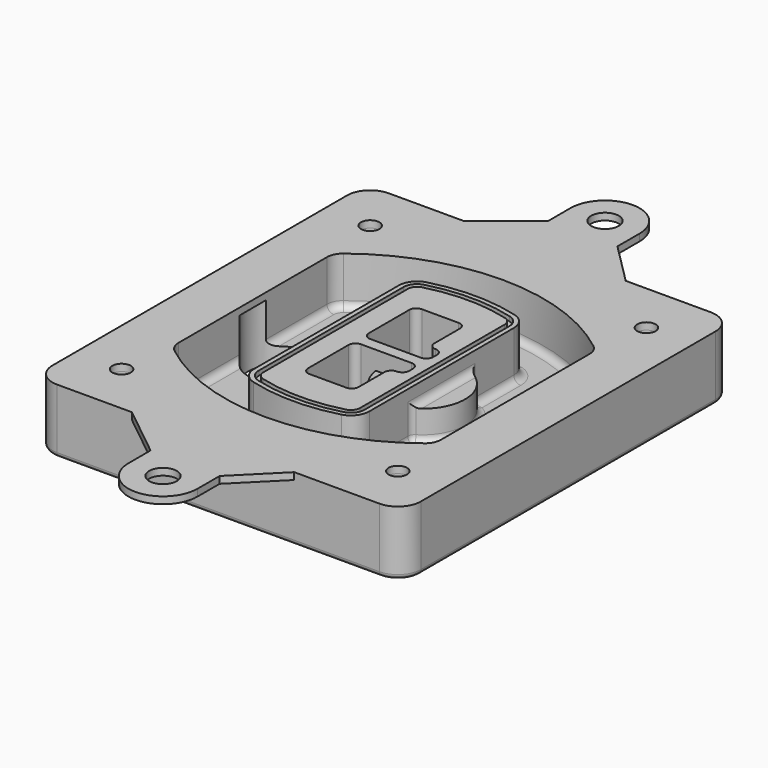
from build123d import *

# Parameters (mm, degrees)
F0_R      = 4
F1_DEPTH  = 25
F2_DEPTH  = 3
F3_DEPTH  = 18
F5_DEPTH  = 21
F6_DEPTH  = 2
F8_DEPTH  = 20
F9_DEPTH  = 16
F10_DEPTH = 25
F7_R      = 6
F7_R_2    = 4
F11_DEPTH = 6
F13_DEPTH = 9
F14_R     = 3
F15_R     = 2
F16_R     = 4
F16_R_2   = 6
F17_DEPTH = 3


with BuildPart() as f1:
    # F0 (on Top) → F1 (new body)
    with BuildSketch(Plane.XY):
        with BuildLine():
            ThreePointArc((-80, -80), (-77.0710678119, -87.0710678119), (-70, -90))
            Line((-70, -90), (70, -90))
            ThreePointArc((70, -90), (77.0710678119, -87.0710678119), (80, -80))
            Line((80, -80), (80, 80))
            ThreePointArc((80, 80), (77.0710678119, 87.0710678119), (70, 90))
            Line((70, 90), (-70, 90))
            ThreePointArc((-70, 90), (-77.0710678119, 87.0710678119), (-80, 80))
            Line((-80, 80), (-80, -80))
        make_face()
        with Locations((-60, -67.5)):
            Circle(F0_R, mode=Mode.SUBTRACT)
        with Locations((60, -67.5)):
            Circle(F0_R, mode=Mode.SUBTRACT)
        with Locations((-60, 67.5)):
            Circle(F0_R, mode=Mode.SUBTRACT)
        with BuildLine():
            ThreePointArc((-64, 40.2934422872), (-62.5820384798, 46.4328484224), (-58.6153846154, 51.3286200352))
            ThreePointArc((-58.6153846154, 51.3286200352), (0, 71.5), (58.6153846154, 51.3286200352))
            ThreePointArc((58.6153846154, 51.3286200352), (62.5820384798, 46.4328484224), (64, 40.2934422872))
            Line((64, 40.2934422872), (64, -40.2934422872))
            ThreePointArc((64, -40.2934422872), (62.5820384798, -46.4328484224), (58.6153846154, -51.3286200352))
            ThreePointArc((58.6153846154, -51.3286200352), (0, -71.5), (-58.6153846154, -51.3286200352))
            ThreePointArc((-58.6153846154, -51.3286200352), (-62.5820384798, -46.4328484224), (-64, -40.2934422872))
            Line((-64, -40.2934422872), (-64, 40.2934422872))
        make_face(mode=Mode.SUBTRACT)
        with Locations((60, 67.5)):
            Circle(F0_R, mode=Mode.SUBTRACT)
        with BuildLine():
            ThreePointArc((58.6153846154, 51.3286200352), (0, 71.5), (-58.6153846154, 51.3286200352))
            ThreePointArc((-58.6153846154, 51.3286200352), (-62.5820384798, 46.4328484224), (-64, 40.2934422872))
            Line((-64, 40.2934422872), (-64, -40.2934422872))
            ThreePointArc((-64, -40.2934422872), (-62.5820384798, -46.4328484224), (-58.6153846154, -51.3286200352))
            ThreePointArc((-58.6153846154, -51.3286200352), (0, -71.5), (58.6153846154, -51.3286200352))
            ThreePointArc((58.6153846154, -51.3286200352), (62.5820384798, -46.4328484224), (64, -40.2934422872))
            Line((64, -40.2934422872), (64, 40.2934422872))
            ThreePointArc((64, 40.2934422872), (62.5820384798, 46.4328484224), (58.6153846154, 51.3286200352))
        make_face()
        with BuildLine():
            Line((-60, -40.2934422872), (-60, 40.2934422872))
            ThreePointArc((-60, 40.2934422872), (-58.9871703427, 44.6787323838), (-56.1538461538, 48.1757121072))
            ThreePointArc((-56.1538461538, 48.1757121072), (0, 67.5), (56.1538461538, 48.1757121072))
            ThreePointArc((56.1538461538, 48.1757121072), (58.9871703427, 44.6787323838), (60, 40.2934422872))
            Line((60, 40.2934422872), (60, -40.2934422872))
            ThreePointArc((60, -40.2934422872), (58.9871703427, -44.6787323838), (56.1538461538, -48.1757121072))
            ThreePointArc((56.1538461538, -48.1757121072), (0, -67.5), (-56.1538461538, -48.1757121072))
            ThreePointArc((-56.1538461538, -48.1757121072), (-58.9871703427, -44.6787323838), (-60, -40.2934422872))
        make_face(mode=Mode.SUBTRACT)
        with BuildLine():
            ThreePointArc((-56.1538461538, 48.1757121072), (-58.9871703427, 44.6787323838), (-60, 40.2934422872))
            Line((-60, 40.2934422872), (-60, -40.2934422872))
            ThreePointArc((-60, -40.2934422872), (-58.9871703427, -44.6787323838), (-56.1538461538, -48.1757121072))
            ThreePointArc((-56.1538461538, -48.1757121072), (0, -67.5), (56.1538461538, -48.1757121072))
            ThreePointArc((56.1538461538, -48.1757121072), (58.9871703427, -44.6787323838), (60, -40.2934422872))
            Line((60, -40.2934422872), (60, 40.2934422872))
            ThreePointArc((60, 40.2934422872), (58.9871703427, 44.6787323838), (56.1538461538, 48.1757121072))
            ThreePointArc((56.1538461538, 48.1757121072), (0, 67.5), (-56.1538461538, 48.1757121072))
        make_face()
        with BuildLine():
            ThreePointArc((54.3076923077, 45.8110311612), (56.2910192399, 43.3631453548), (57, 40.2934422872))
            Line((57, 40.2934422872), (57, -40.2934422872))
            ThreePointArc((57, -40.2934422872), (56.2910192399, -43.3631453548), (54.3076923077, -45.8110311612))
            ThreePointArc((54.3076923077, -45.8110311612), (0, -64.5), (-54.3076923077, -45.8110311612))
            ThreePointArc((-54.3076923077, -45.8110311612), (-56.2910192399, -43.3631453548), (-57, -40.2934422872))
            Line((-57, -40.2934422872), (-57, 40.2934422872))
            ThreePointArc((-57, 40.2934422872), (-56.2910192399, 43.3631453548), (-54.3076923077, 45.8110311612))
            ThreePointArc((-54.3076923077, 45.8110311612), (0, 64.5), (54.3076923077, 45.8110311612))
        make_face(mode=Mode.SUBTRACT)
        with BuildLine():
            Line((57, -40.2934422872), (57, 40.2934422872))
            ThreePointArc((57, 40.2934422872), (56.2910192399, 43.3631453548), (54.3076923077, 45.8110311612))
            ThreePointArc((54.3076923077, 45.8110311612), (0, 64.5), (-54.3076923077, 45.8110311612))
            ThreePointArc((-54.3076923077, 45.8110311612), (-56.2910192399, 43.3631453548), (-57, 40.2934422872))
            Line((-57, 40.2934422872), (-57, -40.2934422872))
            ThreePointArc((-57, -40.2934422872), (-56.2910192399, -43.3631453548), (-54.3076923077, -45.8110311612))
            ThreePointArc((-54.3076923077, -45.8110311612), (0, -64.5), (54.3076923077, -45.8110311612))
            ThreePointArc((54.3076923077, -45.8110311612), (56.2910192399, -43.3631453548), (57, -40.2934422872))
        make_face()
    extrude(amount=-F1_DEPTH)

    # F0 (on Top) → F2 (join)
    with BuildSketch(Plane.XY):
        with BuildLine():
            ThreePointArc((-56.1538461538, 48.1757121072), (-58.9871703427, 44.6787323838), (-60, 40.2934422872))
            Line((-60, 40.2934422872), (-60, -40.2934422872))
            ThreePointArc((-60, -40.2934422872), (-58.9871703427, -44.6787323838), (-56.1538461538, -48.1757121072))
            ThreePointArc((-56.1538461538, -48.1757121072), (0, -67.5), (56.1538461538, -48.1757121072))
            ThreePointArc((56.1538461538, -48.1757121072), (58.9871703427, -44.6787323838), (60, -40.2934422872))
            Line((60, -40.2934422872), (60, 40.2934422872))
            ThreePointArc((60, 40.2934422872), (58.9871703427, 44.6787323838), (56.1538461538, 48.1757121072))
            ThreePointArc((56.1538461538, 48.1757121072), (0, 67.5), (-56.1538461538, 48.1757121072))
        make_face()
        with BuildLine():
            ThreePointArc((54.3076923077, 45.8110311612), (56.2910192399, 43.3631453548), (57, 40.2934422872))
            Line((57, 40.2934422872), (57, -40.2934422872))
            ThreePointArc((57, -40.2934422872), (56.2910192399, -43.3631453548), (54.3076923077, -45.8110311612))
            ThreePointArc((54.3076923077, -45.8110311612), (0, -64.5), (-54.3076923077, -45.8110311612))
            ThreePointArc((-54.3076923077, -45.8110311612), (-56.2910192399, -43.3631453548), (-57, -40.2934422872))
            Line((-57, -40.2934422872), (-57, 40.2934422872))
            ThreePointArc((-57, 40.2934422872), (-56.2910192399, 43.3631453548), (-54.3076923077, 45.8110311612))
            ThreePointArc((-54.3076923077, 45.8110311612), (0, 64.5), (54.3076923077, 45.8110311612))
        make_face(mode=Mode.SUBTRACT)
    extrude(amount=F2_DEPTH)

    # F0 (on Top) → F3 (cut)
    with BuildSketch(Plane.XY):
        with BuildLine():
            Line((57, -40.2934422872), (57, 40.2934422872))
            ThreePointArc((57, 40.2934422872), (56.2910192399, 43.3631453548), (54.3076923077, 45.8110311612))
            ThreePointArc((54.3076923077, 45.8110311612), (0, 64.5), (-54.3076923077, 45.8110311612))
            ThreePointArc((-54.3076923077, 45.8110311612), (-56.2910192399, 43.3631453548), (-57, 40.2934422872))
            Line((-57, 40.2934422872), (-57, -40.2934422872))
            ThreePointArc((-57, -40.2934422872), (-56.2910192399, -43.3631453548), (-54.3076923077, -45.8110311612))
            ThreePointArc((-54.3076923077, -45.8110311612), (0, -64.5), (54.3076923077, -45.8110311612))
            ThreePointArc((54.3076923077, -45.8110311612), (56.2910192399, -43.3631453548), (57, -40.2934422872))
        make_face()
    extrude(amount=-F3_DEPTH, mode=Mode.SUBTRACT)

    # F4 (on face) → F5 (join, through all)
    with BuildSketch(Plane.XY.offset(3)):
        with BuildLine():
            ThreePointArc((-25, -39.2465276821), (-23.3511545998, -44.1109737193), (-19.0842911877, -46.9702398883))
            ThreePointArc((-19.0842911877, -46.9702398883), (0, -49.5), (19.0842911877, -46.9702398883))
            ThreePointArc((19.0842911877, -46.9702398883), (23.3511545998, -44.1109737193), (25, -39.2465276821))
            Line((25, -39.2465276821), (25, 39.2465276821))
            ThreePointArc((25, 39.2465276821), (23.3511545998, 44.1109737193), (19.0842911877, 46.9702398883))
            ThreePointArc((19.0842911877, 46.9702398883), (0, 49.5), (-19.0842911877, 46.9702398883))
            ThreePointArc((-19.0842911877, 46.9702398883), (-23.3511545998, 44.1109737193), (-25, 39.2465276821))
            Line((-25, 39.2465276821), (-25, -39.2465276821))
        make_face()
        with BuildLine():
            ThreePointArc((18.5632183908, 45.0393118368), (21.7633659499, 42.89486221), (23, 39.2465276821))
            Line((23, 39.2465276821), (23, -39.2465276821))
            ThreePointArc((23, -39.2465276821), (21.7633659499, -42.89486221), (18.5632183908, -45.0393118368))
            ThreePointArc((18.5632183908, -45.0393118368), (0, -47.5), (-18.5632183908, -45.0393118368))
            ThreePointArc((-18.5632183908, -45.0393118368), (-21.7633659499, -42.89486221), (-23, -39.2465276821))
            Line((-23, -39.2465276821), (-23, 39.2465276821))
            ThreePointArc((-23, 39.2465276821), (-21.7633659499, 42.89486221), (-18.5632183908, 45.0393118368))
            ThreePointArc((-18.5632183908, 45.0393118368), (0, 47.5), (18.5632183908, 45.0393118368))
        make_face(mode=Mode.SUBTRACT)
        with BuildLine():
            Line((23, -39.2465276821), (23, 39.2465276821))
            ThreePointArc((23, 39.2465276821), (21.7633659499, 42.89486221), (18.5632183908, 45.0393118368))
            ThreePointArc((18.5632183908, 45.0393118368), (0, 47.5), (-18.5632183908, 45.0393118368))
            ThreePointArc((-18.5632183908, 45.0393118368), (-21.7633659499, 42.89486221), (-23, 39.2465276821))
            Line((-23, 39.2465276821), (-23, -39.2465276821))
            ThreePointArc((-23, -39.2465276821), (-21.7633659499, -42.89486221), (-18.5632183908, -45.0393118368))
            ThreePointArc((-18.5632183908, -45.0393118368), (0, -47.5), (18.5632183908, -45.0393118368))
            ThreePointArc((18.5632183908, -45.0393118368), (21.7633659499, -42.89486221), (23, -39.2465276821))
        make_face()
        with BuildLine():
            ThreePointArc((18.0421455939, 43.1083837852), (20.1755772999, 41.6787507007), (21, 39.2465276821))
            Line((21, 39.2465276821), (21, -39.2465276821))
            ThreePointArc((21, -39.2465276821), (20.1755772999, -41.6787507007), (18.0421455939, -43.1083837852))
            ThreePointArc((18.0421455939, -43.1083837852), (0, -45.5), (-18.0421455939, -43.1083837852))
            ThreePointArc((-18.0421455939, -43.1083837852), (-20.1755772999, -41.6787507007), (-21, -39.2465276821))
            Line((-21, -39.2465276821), (-21, 39.2465276821))
            ThreePointArc((-21, 39.2465276821), (-20.1755772999, 41.6787507007), (-18.0421455939, 43.1083837852))
            ThreePointArc((-18.0421455939, 43.1083837852), (0, 45.5), (18.0421455939, 43.1083837852))
        make_face(mode=Mode.SUBTRACT)
        with BuildLine():
            Line((21, -39.2465276821), (21, 39.2465276821))
            ThreePointArc((21, 39.2465276821), (20.1755772999, 41.6787507007), (18.0421455939, 43.1083837852))
            ThreePointArc((18.0421455939, 43.1083837852), (0, 45.5), (-18.0421455939, 43.1083837852))
            ThreePointArc((-18.0421455939, 43.1083837852), (-20.1755772999, 41.6787507007), (-21, 39.2465276821))
            Line((-21, 39.2465276821), (-21, -39.2465276821))
            ThreePointArc((-21, -39.2465276821), (-20.1755772999, -41.6787507007), (-18.0421455939, -43.1083837852))
            ThreePointArc((-18.0421455939, -43.1083837852), (0, -45.5), (18.0421455939, -43.1083837852))
            ThreePointArc((18.0421455939, -43.1083837852), (20.1755772999, -41.6787507007), (21, -39.2465276821))
        make_face()
        with BuildLine():
            Line((-8, -2.5), (14, -2.5))
            ThreePointArc((14, -2.5), (16.1213203436, -3.3786796564), (17, -5.5))
            Line((17, -5.5), (17, -7.5))
            ThreePointArc((17, -7.5), (16.1213203436, -9.6213203436), (14, -10.5))
            ThreePointArc((14, -10.5), (11.8786796564, -11.3786796564), (11, -13.5))
            Line((11, -13.5), (11, -27.5))
            ThreePointArc((11, -27.5), (10.1213203436, -29.6213203436), (8, -30.5))
            Line((8, -30.5), (-8, -30.5))
            ThreePointArc((-8, -30.5), (-10.1213203436, -29.6213203436), (-11, -27.5))
            Line((-11, -27.5), (-11, -5.5))
            ThreePointArc((-11, -5.5), (-10.1213203436, -3.3786796564), (-8, -2.5))
        make_face(mode=Mode.SUBTRACT)
        with BuildLine():
            ThreePointArc((-8, 2.5), (-10.1213203436, 3.3786796564), (-11, 5.5))
            Line((-11, 5.5), (-11, 27.5))
            ThreePointArc((-11, 27.5), (-10.1213203436, 29.6213203436), (-8, 30.5))
            Line((-8, 30.5), (8, 30.5))
            ThreePointArc((8, 30.5), (10.1213203436, 29.6213203436), (11, 27.5))
            Line((11, 27.5), (11, 13.5))
            ThreePointArc((11, 13.5), (11.8786796564, 11.3786796564), (14, 10.5))
            ThreePointArc((14, 10.5), (16.1213203436, 9.6213203436), (17, 7.5))
            Line((17, 7.5), (17, 5.5))
            ThreePointArc((17, 5.5), (16.1213203436, 3.3786796564), (14, 2.5))
            Line((14, 2.5), (-8, 2.5))
        make_face(mode=Mode.SUBTRACT)
    extrude(amount=-F5_DEPTH)

    # F4 (on face) → F6 (cut)
    with BuildSketch(Plane.XY.offset(3)):
        with BuildLine():
            Line((23, -39.2465276821), (23, 39.2465276821))
            ThreePointArc((23, 39.2465276821), (21.7633659499, 42.89486221), (18.5632183908, 45.0393118368))
            ThreePointArc((18.5632183908, 45.0393118368), (0, 47.5), (-18.5632183908, 45.0393118368))
            ThreePointArc((-18.5632183908, 45.0393118368), (-21.7633659499, 42.89486221), (-23, 39.2465276821))
            Line((-23, 39.2465276821), (-23, -39.2465276821))
            ThreePointArc((-23, -39.2465276821), (-21.7633659499, -42.89486221), (-18.5632183908, -45.0393118368))
            ThreePointArc((-18.5632183908, -45.0393118368), (0, -47.5), (18.5632183908, -45.0393118368))
            ThreePointArc((18.5632183908, -45.0393118368), (21.7633659499, -42.89486221), (23, -39.2465276821))
        make_face()
        with BuildLine():
            ThreePointArc((18.0421455939, 43.1083837852), (20.1755772999, 41.6787507007), (21, 39.2465276821))
            Line((21, 39.2465276821), (21, -39.2465276821))
            ThreePointArc((21, -39.2465276821), (20.1755772999, -41.6787507007), (18.0421455939, -43.1083837852))
            ThreePointArc((18.0421455939, -43.1083837852), (0, -45.5), (-18.0421455939, -43.1083837852))
            ThreePointArc((-18.0421455939, -43.1083837852), (-20.1755772999, -41.6787507007), (-21, -39.2465276821))
            Line((-21, -39.2465276821), (-21, 39.2465276821))
            ThreePointArc((-21, 39.2465276821), (-20.1755772999, 41.6787507007), (-18.0421455939, 43.1083837852))
            ThreePointArc((-18.0421455939, 43.1083837852), (0, 45.5), (18.0421455939, 43.1083837852))
        make_face(mode=Mode.SUBTRACT)
    extrude(amount=-F6_DEPTH, mode=Mode.SUBTRACT)

    # F7 (on face) → F8 (join)
    with BuildSketch(Plane(origin=(0, 0, -25), x_dir=(1, 0, 0), z_dir=(0, 0, -1))):
        with BuildLine():
            ThreePointArc((3.28842436, 0), (16.7567035675, 13.4682792075), (30.224982775, 0))
            Line((30.224982775, 0), (35.224982775, 0))
            ThreePointArc((35.224982775, 0), (16.7567035675, 18.4682792075), (-1.71157564, 0))
            Line((-1.71157564, 0), (3.28842436, 0))
        make_face()
        with BuildLine():
            Line((3.28842436, 0), (30.224982775, 0))
            ThreePointArc((30.224982775, 0), (16.7567035675, 13.4682792075), (3.28842436, 0))
        make_face()
        with BuildLine():
            ThreePointArc((3.28842436, 0), (16.7567035675, -13.4682792075), (30.224982775, 0))
            Line((30.224982775, 0), (3.28842436, 0))
        make_face()
        with BuildLine():
            Line((35.224982775, 0), (30.224982775, 0))
            ThreePointArc((30.224982775, 0), (16.7567035675, -13.4682792075), (3.28842436, 0))
            Line((3.28842436, 0), (-1.71157564, 0))
            ThreePointArc((-1.71157564, 0), (16.7567035675, -18.4682792075), (35.224982775, 0))
        make_face()
    extrude(amount=-F8_DEPTH)

    # F7 (on face) → F9 (cut)
    with BuildSketch(Plane(origin=(0, 0, -25), x_dir=(1, 0, 0), z_dir=(0, 0, -1))):
        with BuildLine():
            Line((3.28842436, 0), (30.224982775, 0))
            ThreePointArc((30.224982775, 0), (16.7567035675, 13.4682792075), (3.28842436, 0))
        make_face()
        with BuildLine():
            ThreePointArc((3.28842436, 0), (16.7567035675, -13.4682792075), (30.224982775, 0))
            Line((30.224982775, 0), (3.28842436, 0))
        make_face()
    extrude(amount=-F9_DEPTH, mode=Mode.SUBTRACT)

    # F7 (on face) → F10 (cut)
    with BuildSketch(Plane(origin=(0, 0, -25), x_dir=(1, 0, 0), z_dir=(0, 0, -1))):
        with BuildLine():
            Line((-59.0318229325, 0), (-32.0952645175, 0))
            ThreePointArc((-32.0952645175, 0), (-45.563543725, 13.4682792075), (-59.0318229325, 0))
        make_face()
        with BuildLine():
            ThreePointArc((-59.0318229325, 0), (-45.563543725, -13.4682792075), (-32.0952645175, 0))
            Line((-32.0952645175, 0), (-59.0318229325, 0))
        make_face()
    extrude(amount=-F10_DEPTH, mode=Mode.SUBTRACT)

    # F7 (on face) → F11 (cut)
    with BuildSketch(Plane(origin=(0, 0, -25), x_dir=(1, 0, 0), z_dir=(0, 0, -1))):
        with Locations((60, -67.5)):
            Circle(F7_R)
        with Locations((60, -67.5)):
            Circle(F7_R_2, mode=Mode.SUBTRACT)
        with Locations((60, -67.5)):
            Circle(F7_R)
        with Locations((60, -67.5)):
            Circle(F7_R_2, mode=Mode.SUBTRACT)
        with Locations((-60, -67.5)):
            Circle(F7_R)
        with Locations((-60, -67.5)):
            Circle(F7_R_2, mode=Mode.SUBTRACT)
        with Locations((-60, -67.5)):
            Circle(F7_R)
        with Locations((-60, -67.5)):
            Circle(F7_R_2, mode=Mode.SUBTRACT)
        with Locations((-60, 67.5)):
            Circle(F7_R)
        with Locations((-60, 67.5)):
            Circle(F7_R_2, mode=Mode.SUBTRACT)
        with Locations((-60, 67.5)):
            Circle(F7_R)
        with Locations((-60, 67.5)):
            Circle(F7_R_2, mode=Mode.SUBTRACT)
        with Locations((60, 67.5)):
            Circle(F7_R)
        with Locations((60, 67.5)):
            Circle(F7_R_2, mode=Mode.SUBTRACT)
        with Locations((60, 67.5)):
            Circle(F7_R)
        with Locations((60, 67.5)):
            Circle(F7_R_2, mode=Mode.SUBTRACT)
    extrude(amount=-F11_DEPTH, mode=Mode.SUBTRACT)

    # F12 (on face) → F13 (cut, through all)
    with BuildSketch(Plane(origin=(0, 0, -9), x_dir=(1, 0, 0), z_dir=(0, 0, -1))):
        with BuildLine():
            Line((11, 13.5), (11, 17.5481537753))
            ThreePointArc((11, 17.5481537753), (2.5696536419, 11.8239143813), (-1.5415842455, 2.5))
            Line((-1.5415842455, 2.5), (3.5224848595, 2.5))
            ThreePointArc((3.5224848595, 2.5), (6.1857188154, 8.3455872281), (11.2536447004, 12.2927168648))
            ThreePointArc((11.2536447004, 12.2927168648), (11.0640958889, 12.8831798879), (11, 13.5))
        make_face()
        with BuildLine():
            ThreePointArc((11.2536447004, -12.2927168648), (6.1857188154, -8.3455872281), (3.5224848595, -2.5))
            Line((3.5224848595, -2.5), (-1.5415842455, -2.5))
            ThreePointArc((-1.5415842455, -2.5), (2.5696536419, -11.8239143813), (11, -17.5481537753))
            Line((11, -17.5481537753), (11, -13.5))
            ThreePointArc((11, -13.5), (11.0640958889, -12.8831798879), (11.2536447004, -12.2927168648))
        make_face()
        with BuildLine():
            ThreePointArc((11.2536447004, 12.2927168648), (6.1857188154, 8.3455872281), (3.5224848595, 2.5))
            Line((3.5224848595, 2.5), (14, 2.5))
            ThreePointArc((14, 2.5), (16.1213203436, 3.3786796564), (17, 5.5))
            Line((17, 5.5), (17, 7.5))
            ThreePointArc((17, 7.5), (16.1213203436, 9.6213203436), (14, 10.5))
            ThreePointArc((14, 10.5), (12.3601599782, 10.9878446101), (11.2536447004, 12.2927168648))
        make_face()
        with BuildLine():
            Line((14, -2.5), (3.5224848595, -2.5))
            ThreePointArc((3.5224848595, -2.5), (6.1857188154, -8.3455872281), (11.2536447004, -12.2927168648))
            ThreePointArc((11.2536447004, -12.2927168648), (12.3601599782, -10.9878446101), (14, -10.5))
            ThreePointArc((14, -10.5), (16.1213203436, -9.6213203436), (17, -7.5))
            Line((17, -7.5), (17, -5.5))
            ThreePointArc((17, -5.5), (16.1213203436, -3.3786796564), (14, -2.5))
        make_face()
    extrude(amount=F13_DEPTH, mode=Mode.SUBTRACT)

    # F14
    f14_edges = [f1.edges().sort_by_distance(p)[0] for p in [
        (-57, -23.703476, -18),
        (-57, 23.703476, -18),
        (25, 0, -5),
        (25, 16.526506, -11.5),
        (25, -16.526506, -11.5),
        (25, -27.886517, -18),
        (35.224983, 0, -18),
    ]]
    fillet(f14_edges, radius=F14_R)

    # F15
    f15_edges = [f1.edges().sort_by_distance(p)[0] for p in [
        (0, -90, -25),
    ]]
    fillet(f15_edges, radius=F15_R)

    # F16 (on face) → F17 (join, through all)
    with BuildSketch(Plane.XY):
        with BuildLine():
            Line((-80, 80), (-80, -80))
            ThreePointArc((-80, -80), (-77.0710678119, -87.0710678119), (-70, -90))
            Line((-70, -90), (-37.5, -90))
            Line((-37.5, -90), (33, -90))
            Line((33, -90), (70, -90))
            ThreePointArc((70, -90), (77.0710678119, -87.0710678119), (80, -80))
            Line((80, -80), (80, 80))
            ThreePointArc((80, 80), (77.0710678119, 87.0710678119), (70, 90))
            Line((70, 90), (33, 90))
            Line((33, 90), (-37.5, 90))
            Line((-37.5, 90), (-70, 90))
            ThreePointArc((-70, 90), (-77.0710678119, 87.0710678119), (-80, 80))
        make_face()
        with Locations((-60, -67.5)):
            Circle(F16_R, mode=Mode.SUBTRACT)
        with Locations((60, -67.5)):
            Circle(F16_R, mode=Mode.SUBTRACT)
        with Locations((-60, 67.5)):
            Circle(F16_R, mode=Mode.SUBTRACT)
        with BuildLine():
            ThreePointArc((-60, 40.2934422872), (-58.9871703427, 44.6787323838), (-56.1538461538, 48.1757121072))
            ThreePointArc((-56.1538461538, 48.1757121072), (0, 67.5), (56.1538461538, 48.1757121072))
            ThreePointArc((56.1538461538, 48.1757121072), (58.9871703427, 44.6787323838), (60, 40.2934422872))
            Line((60, 40.2934422872), (60, -40.2934422872))
            ThreePointArc((60, -40.2934422872), (58.9871703427, -44.6787323838), (56.1538461538, -48.1757121072))
            ThreePointArc((56.1538461538, -48.1757121072), (0, -67.5), (-56.1538461538, -48.1757121072))
            ThreePointArc((-56.1538461538, -48.1757121072), (-58.9871703427, -44.6787323838), (-60, -40.2934422872))
            Line((-60, -40.2934422872), (-60, 40.2934422872))
        make_face(mode=Mode.SUBTRACT)
        with Locations((60, 67.5)):
            Circle(F16_R, mode=Mode.SUBTRACT)
        with BuildLine():
            Line((33, -90), (-37.5, -90))
            Line((-37.5, -90), (-15, -108))
            Line((-15, -108), (-15, -120))
            ThreePointArc((-15, -120), (0, -135), (15, -120))
            Line((15, -120), (15, -108))
            Line((15, -108), (33, -90))
        make_face()
        with Locations((0, -120)):
            Circle(F16_R_2, mode=Mode.SUBTRACT)
        with BuildLine():
            Line((-15, 108), (-37.5, 90))
            Line((-37.5, 90), (33, 90))
            Line((33, 90), (15, 108))
            Line((15, 108), (15, 120))
            ThreePointArc((15, 120), (0, 135), (-15, 120))
            Line((-15, 120), (-15, 108))
        make_face()
        with Locations((0, 120)):
            Circle(F16_R_2, mode=Mode.SUBTRACT)
    extrude(amount=F17_DEPTH)


solid = f1.part
